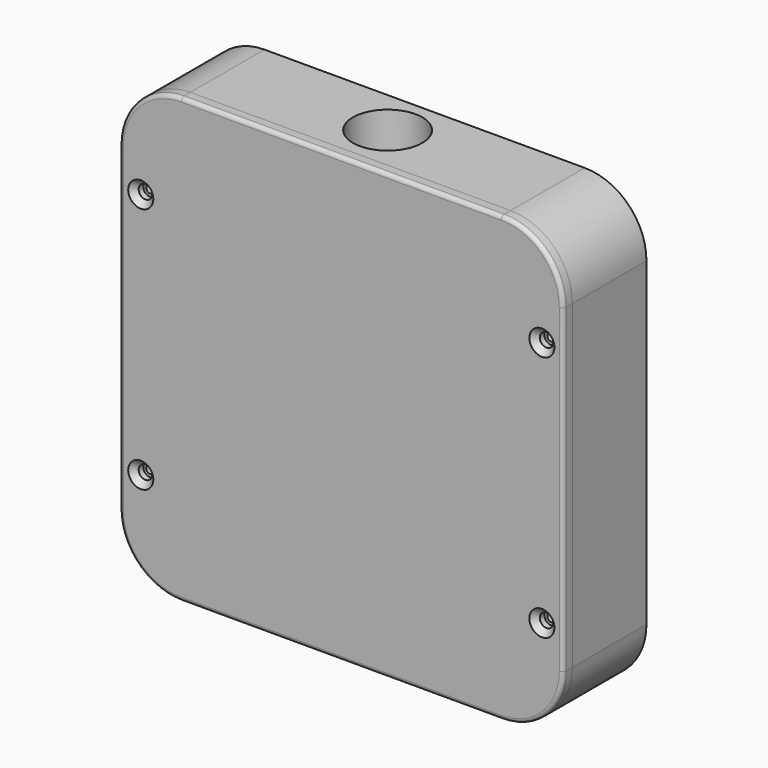
from build123d import *

# Parameters (mm, degrees)
F0_R      = 1
F0_R_2    = 2
F1_DEPTH  = 24
F2_SIZE   = 2
F4_R      = 9
F4_R_2    = 8
F5_DEPTH  = 25
F6_DEPTH  = 13.5
F8_R      = 9
F8_R_2    = 8
F9_DEPTH  = 25
F10_DEPTH = 13.5
F12_R     = 1.75
F12_R_2   = 4
F13_DEPTH = 3
F14_SIZE  = 1.5
F15_R     = 1
F16_DEPTH = 0.5
F17_DEPTH = 2
F18_SIZE  = 1


with BuildPart() as f1:
    # F0 (on Front) → F1 (new body)
    with BuildSketch(Plane.XZ):
        with BuildLine():
            Line((-41.5, 12.5), (41.5, 12.5))
            ThreePointArc((41.5, 12.5), (52.813708499, 17.186291501), (57.5, 28.5))
            Line((57.5, 28.5), (57.5, 111.5))
            ThreePointArc((57.5, 111.5), (52.813708499, 122.813708499), (41.5, 127.5))
            Line((41.5, 127.5), (-41.5, 127.5))
            ThreePointArc((-41.5, 127.5), (-52.813708499, 122.813708499), (-57.5, 111.5))
            Line((-57.5, 111.5), (-57.5, 28.5))
            ThreePointArc((-57.5, 28.5), (-52.813708499, 17.186291501), (-41.5, 12.5))
        make_face()
        with Locations((-52, 38)):
            Circle(F0_R, mode=Mode.SUBTRACT)
        with Locations((-26, 18)):
            Circle(F0_R_2, mode=Mode.SUBTRACT)
        with Locations((26, 18)):
            Circle(F0_R_2, mode=Mode.SUBTRACT)
        with Locations((52, 38)):
            Circle(F0_R, mode=Mode.SUBTRACT)
        with BuildLine():
            Line((46.5, 116.5), (46.5, 105.8933982822))
            Line((46.5, 105.8933982822), (46.5, 100))
            Line((46.5, 100), (52.5, 94))
            Line((52.5, 94), (52.5, 46))
            Line((52.5, 46), (46.5, 40))
            Line((46.5, 40), (46.5, 38.2979589711))
            ThreePointArc((46.5, 38.2979589711), (49.2781745931, 20.7218254069), (31.7020410289, 23.5))
            Line((31.7020410289, 23.5), (-35.8933982822, 23.5))
            Line((-35.8933982822, 23.5), (-46.5, 23.5))
            Line((-46.5, 23.5), (-46.5, 34.1066017178))
            Line((-46.5, 34.1066017178), (-46.5, 40))
            Line((-46.5, 40), (-52.5, 46))
            Line((-52.5, 46), (-52.5, 94))
            Line((-52.5, 94), (-46.5, 100))
            Line((-46.5, 100), (-46.5, 116.5))
            Line((-46.5, 116.5), (35.8933982822, 116.5))
            Line((35.8933982822, 116.5), (46.5, 116.5))
        make_face(mode=Mode.SUBTRACT)
        with Locations((-52, 102)):
            Circle(F0_R, mode=Mode.SUBTRACT)
        with Locations((-26, 122)):
            Circle(F0_R_2, mode=Mode.SUBTRACT)
        with Locations((26, 122)):
            Circle(F0_R_2, mode=Mode.SUBTRACT)
        with Locations((52, 102)):
            Circle(F0_R, mode=Mode.SUBTRACT)
    extrude(amount=F1_DEPTH)

    # F2
    f2_edges = [f1.edges().sort_by_distance(p)[0] for p in [
        (-28, -24, 122),
        (24, -24, 18),
        (-28, -24, 18),
        (24, -24, 122),
    ]]
    chamfer(f2_edges, length=F2_SIZE)

    # F4 (on offset) → F5 (cut)
    with BuildSketch(Plane.XY.offset(118)):
        with Locations((0, -12)):
            Circle(F4_R)
        with Locations((0, -12)):
            Circle(F4_R_2, mode=Mode.SUBTRACT)
    extrude(amount=F5_DEPTH, mode=Mode.SUBTRACT)

    # F4 (on offset) → F6 (cut, symmetric)
    with BuildSketch(Plane.XY.offset(118)):
        with Locations((0, -12)):
            Circle(F4_R_2)
    extrude(amount=F6_DEPTH, both=True, mode=Mode.SUBTRACT)

    # F8 (on offset) → F9 (cut)
    with BuildSketch(Plane.XY.offset(22)):
        with Locations((0, -12)):
            Circle(F8_R)
        with Locations((0, -12)):
            Circle(F8_R_2, mode=Mode.SUBTRACT)
    extrude(amount=-F9_DEPTH, mode=Mode.SUBTRACT)

    # F8 (on offset) → F10 (cut, symmetric)
    with BuildSketch(Plane.XY.offset(22)):
        with Locations((0, -12)):
            Circle(F8_R_2)
    extrude(amount=F10_DEPTH, both=True, mode=Mode.SUBTRACT)

    # F0 (on Front) → F17 (join)
    with BuildSketch(Plane.XZ):
        with BuildLine():
            Line((-41.5, 12.5), (41.5, 12.5))
            ThreePointArc((41.5, 12.5), (52.813708499, 17.186291501), (57.5, 28.5))
            Line((57.5, 28.5), (57.5, 111.5))
            ThreePointArc((57.5, 111.5), (52.813708499, 122.813708499), (41.5, 127.5))
            Line((41.5, 127.5), (-41.5, 127.5))
            ThreePointArc((-41.5, 127.5), (-52.813708499, 122.813708499), (-57.5, 111.5))
            Line((-57.5, 111.5), (-57.5, 28.5))
            ThreePointArc((-57.5, 28.5), (-52.813708499, 17.186291501), (-41.5, 12.5))
        make_face()
        with Locations((-52, 38)):
            Circle(F0_R, mode=Mode.SUBTRACT)
        with Locations((-26, 18)):
            Circle(F0_R_2, mode=Mode.SUBTRACT)
        with Locations((26, 18)):
            Circle(F0_R_2, mode=Mode.SUBTRACT)
        with Locations((52, 38)):
            Circle(F0_R, mode=Mode.SUBTRACT)
        with BuildLine():
            Line((46.5, 116.5), (46.5, 105.8933982822))
            Line((46.5, 105.8933982822), (46.5, 100))
            Line((46.5, 100), (52.5, 94))
            Line((52.5, 94), (52.5, 46))
            Line((52.5, 46), (46.5, 40))
            Line((46.5, 40), (46.5, 38.2979589711))
            ThreePointArc((46.5, 38.2979589711), (49.2781745931, 20.7218254069), (31.7020410289, 23.5))
            Line((31.7020410289, 23.5), (-35.8933982822, 23.5))
            Line((-35.8933982822, 23.5), (-46.5, 23.5))
            Line((-46.5, 23.5), (-46.5, 34.1066017178))
            Line((-46.5, 34.1066017178), (-46.5, 40))
            Line((-46.5, 40), (-52.5, 46))
            Line((-52.5, 46), (-52.5, 94))
            Line((-52.5, 94), (-46.5, 100))
            Line((-46.5, 100), (-46.5, 116.5))
            Line((-46.5, 116.5), (35.8933982822, 116.5))
            Line((35.8933982822, 116.5), (46.5, 116.5))
        make_face(mode=Mode.SUBTRACT)
        with Locations((-52, 102)):
            Circle(F0_R, mode=Mode.SUBTRACT)
        with Locations((-26, 122)):
            Circle(F0_R_2, mode=Mode.SUBTRACT)
        with Locations((26, 122)):
            Circle(F0_R_2, mode=Mode.SUBTRACT)
        with Locations((52, 102)):
            Circle(F0_R, mode=Mode.SUBTRACT)
        with BuildLine():
            ThreePointArc((0, 68.5), (-1.0606601718, 68.9393398282), (-1.5, 70))
            Line((-1.5, 70), (-10.6066017178, 70))
            Line((-10.6066017178, 70), (-46.5, 34.1066017178))
            Line((-46.5, 34.1066017178), (-46.5, 23.5))
            Line((-46.5, 23.5), (-35.8933982822, 23.5))
            Line((-35.8933982822, 23.5), (0, 59.3933982822))
            Line((0, 59.3933982822), (0, 68.5))
        make_face()
        with BuildLine():
            Line((10.6066017178, 70), (1.5, 70))
            ThreePointArc((1.5, 70), (1.0606601718, 68.9393398282), (0, 68.5))
            Line((0, 68.5), (0, 59.3933982822))
            Line((0, 59.3933982822), (10.6066017178, 70))
        make_face()
        with BuildLine():
            ThreePointArc((-1.5, 70), (0, 71.5), (1.5, 70))
            Line((1.5, 70), (10.6066017178, 70))
            Line((10.6066017178, 70), (46.5, 105.8933982822))
            Line((46.5, 105.8933982822), (46.5, 116.5))
            Line((46.5, 116.5), (35.8933982822, 116.5))
            Line((35.8933982822, 116.5), (-10.6066017178, 70))
            Line((-10.6066017178, 70), (-1.5, 70))
        make_face()
    extrude(amount=F17_DEPTH)

    # F18
    f18_edges = [f1.edges().sort_by_distance(p)[0] for p in [
        (1.5, -2, 70),
    ]]
    chamfer(f18_edges, length=F18_SIZE)


with BuildPart() as f13:
    # F12 (on offset) → F13 (new body)
    with BuildSketch(Plane.XZ.offset(24)):
        with BuildLine():
            Line((41.5, 127.5), (-41.5, 127.5))
            ThreePointArc((-41.5, 127.5), (-52.813708499, 122.813708499), (-57.5, 111.5))
            Line((-57.5, 111.5), (-57.5, 28.5))
            ThreePointArc((-57.5, 28.5), (-52.813708499, 17.186291501), (-41.5, 12.5))
            Line((-41.5, 12.5), (41.5, 12.5))
            ThreePointArc((41.5, 12.5), (52.813708499, 17.186291501), (57.5, 28.5))
            Line((57.5, 28.5), (57.5, 111.5))
            ThreePointArc((57.5, 111.5), (52.813708499, 122.813708499), (41.5, 127.5))
        make_face()
        with Locations((-52, 38)):
            Circle(F12_R, mode=Mode.SUBTRACT)
        with Locations((-26, 18)):
            Circle(F12_R_2, mode=Mode.SUBTRACT)
        with Locations((26, 18)):
            Circle(F12_R_2, mode=Mode.SUBTRACT)
        with Locations((52, 38)):
            Circle(F12_R, mode=Mode.SUBTRACT)
        with Locations((-52, 102)):
            Circle(F12_R, mode=Mode.SUBTRACT)
        with Locations((-26, 122)):
            Circle(F12_R_2, mode=Mode.SUBTRACT)
        with Locations((26, 122)):
            Circle(F12_R_2, mode=Mode.SUBTRACT)
        with Locations((52, 102)):
            Circle(F12_R, mode=Mode.SUBTRACT)
        with BuildLine():
            Line((41.5, 127.5), (-41.5, 127.5))
            ThreePointArc((-41.5, 127.5), (-52.813708499, 122.813708499), (-57.5, 111.5))
            Line((-57.5, 111.5), (-57.5, 28.5))
            ThreePointArc((-57.5, 28.5), (-52.813708499, 17.186291501), (-41.5, 12.5))
            Line((-41.5, 12.5), (41.5, 12.5))
            ThreePointArc((41.5, 12.5), (52.813708499, 17.186291501), (57.5, 28.5))
            Line((57.5, 28.5), (57.5, 111.5))
            ThreePointArc((57.5, 111.5), (52.813708499, 122.813708499), (41.5, 127.5))
        make_face()
        with Locations((-52, 38)):
            Circle(F12_R, mode=Mode.SUBTRACT)
        with Locations((-26, 18)):
            Circle(F12_R_2, mode=Mode.SUBTRACT)
        with Locations((26, 18)):
            Circle(F12_R_2, mode=Mode.SUBTRACT)
        with Locations((52, 38)):
            Circle(F12_R, mode=Mode.SUBTRACT)
        with Locations((-52, 102)):
            Circle(F12_R, mode=Mode.SUBTRACT)
        with Locations((-26, 122)):
            Circle(F12_R_2, mode=Mode.SUBTRACT)
        with Locations((26, 122)):
            Circle(F12_R_2, mode=Mode.SUBTRACT)
        with Locations((52, 102)):
            Circle(F12_R, mode=Mode.SUBTRACT)
        with Locations((-26, 122)):
            Circle(F12_R_2)
        with Locations((26, 122)):
            Circle(F12_R_2)
        with Locations((-26, 18)):
            Circle(F12_R_2)
        with Locations((26, 18)):
            Circle(F12_R_2)
    extrude(amount=F13_DEPTH)

    # F14
    f14_edges = [f13.edges().sort_by_distance(p)[0] for p in [
        (-53.75, -27, 102),
        (-53.75, -27, 38),
        (50.25, -27, 38),
        (50.25, -27, 102),
    ]]
    chamfer(f14_edges, length=F14_SIZE)

    # F15
    f15_edges = [f13.edges().sort_by_distance(p)[0] for p in [
        (-57.5, -27, 70),
    ]]
    fillet(f15_edges, radius=F15_R)

    # F12 (on offset) → F16 (cut, symmetric)
    with BuildSketch(Plane.XZ.offset(24)):
        with Locations((-26, 122)):
            Circle(F12_R_2)
        with Locations((26, 122)):
            Circle(F12_R_2)
        with Locations((-26, 18)):
            Circle(F12_R_2)
        with Locations((26, 18)):
            Circle(F12_R_2)
    extrude(amount=F16_DEPTH, both=True, mode=Mode.SUBTRACT)


solid = Compound([f1.part, f13.part])
